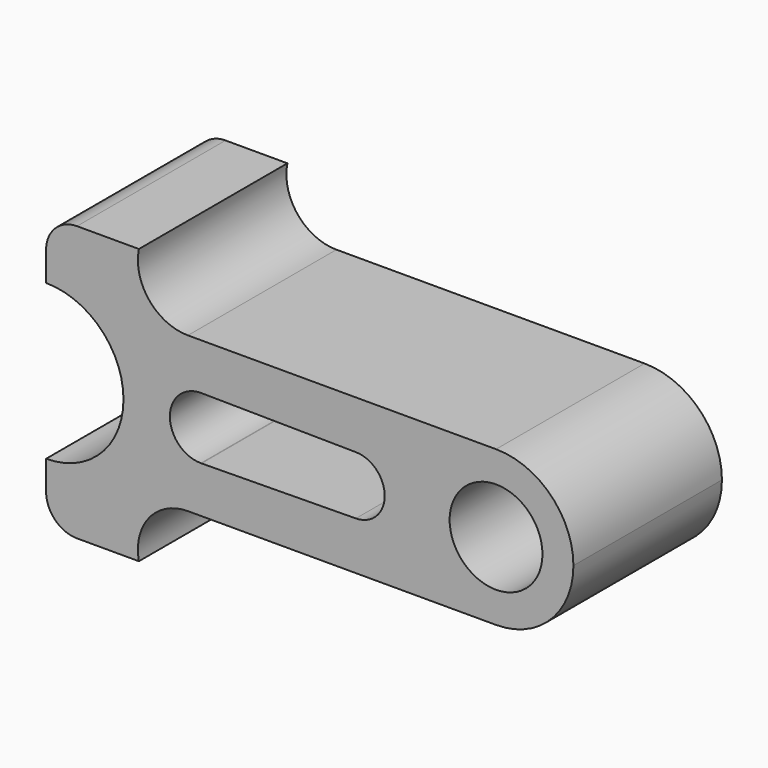
from build123d import *

# Parameters (mm, degrees)
F0_R     = 0.75
F1_DEPTH = 3


with BuildPart() as f1:
    # F0 (on Front) → F1 (new body)
    with BuildSketch(Plane.XZ):
        with BuildLine():
            ThreePointArc((3.076821, -1.25), (3.960705, -0.883883), (4.326821, 0))
            ThreePointArc((4.326821, 0), (3.960705, 0.883883), (3.076821, 1.25))
            ThreePointArc((3.076821, 1.25), (1.826821, 0), (3.076821, -1.25))
        make_face()
        with Locations((3.076821, 0)):
            Circle(F0_R, mode=Mode.SUBTRACT)
        with BuildLine():
            ThreePointArc((3.076821, -1.25), (1.826821, 0), (3.076821, 1.25))
            Line((3.076821, 1.25), (-1.902765, 1.25))
            ThreePointArc((-1.902765, 1.25), (-2.529328, 1.547448), (-2.694943, 2.220968))
            Line((-2.694943, 2.220968), (-3.694943, 2.220968))
            ThreePointArc((-3.694943, 2.220968), (-4.038078, 2.084641), (-4.194099, 1.75))
            Line((-4.194099, 1.75), (-4.194099, 1.691935))
            Line((-4.194099, 1.691935), (-4.194099, 1.25))
            ThreePointArc((-4.194099, 1.25), (-2.944099, 0), (-4.194099, -1.25))
            Line((-4.194099, -1.25), (-4.194099, -1.691935))
            Line((-4.194099, -1.691935), (-4.194099, -1.75))
            ThreePointArc((-4.194099, -1.75), (-4.038078, -2.084641), (-3.694943, -2.220968))
            Line((-3.694943, -2.220968), (-2.694943, -2.220968))
            ThreePointArc((-2.694943, -2.220968), (-2.529328, -1.547448), (-1.902765, -1.25))
            Line((-1.902765, -1.25), (3.076821, -1.25))
        make_face()
        with BuildLine():
            ThreePointArc((-1.694099, 0.5), (-1.688425, 0.499968), (-1.682752, 0.499871))
            Line((-1.682752, 0.499871), (0.811253, 0.471568))
            ThreePointArc((0.811253, 0.471568), (1.277499, 0), (0.811253, -0.471568))
            Line((0.811253, -0.471568), (-1.682752, -0.499871))
            ThreePointArc((-1.682752, -0.499871), (-1.688425, -0.499968), (-1.694099, -0.5))
            ThreePointArc((-1.694099, -0.5), (-2.194099, 0), (-1.694099, 0.5))
        make_face(mode=Mode.SUBTRACT)
        with BuildLine():
            Line((-4.194099, 1.691935), (-4.194099, 1.75))
            ThreePointArc((-4.194099, 1.75), (-4.194943, 1.720968), (-4.194099, 1.691935))
        make_face()
        with BuildLine():
            ThreePointArc((-4.194099, -1.691935), (-4.194943, -1.720968), (-4.194099, -1.75))
            Line((-4.194099, -1.75), (-4.194099, -1.691935))
        make_face()
    extrude(amount=F1_DEPTH)


solid = f1.part
